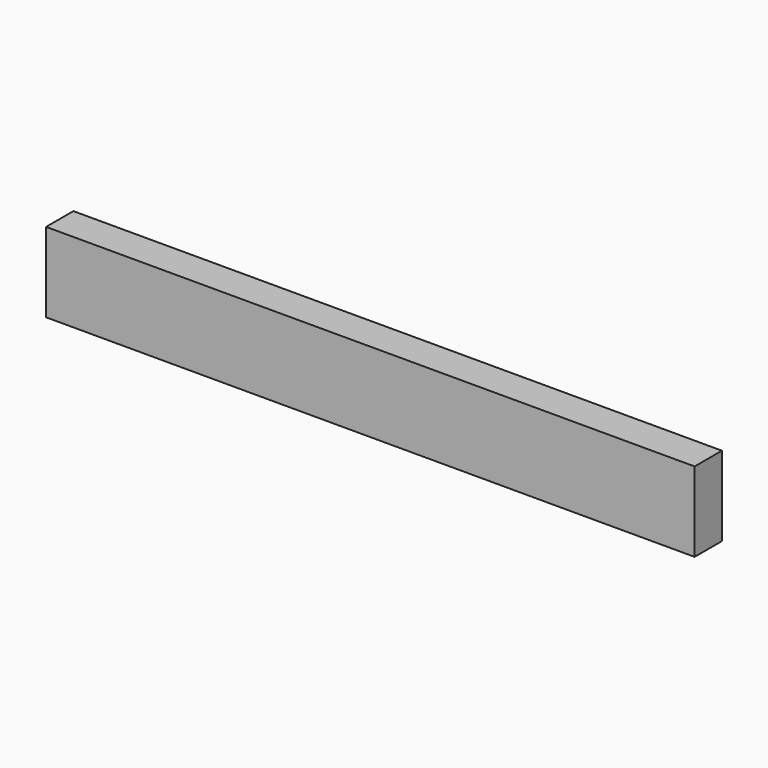
from build123d import *

# Parameters (mm, degrees)
F0_W     = 723.9
F0_H     = 88.9
F1_DEPTH = 38.1
F2_R     = 38.305173
F3_DEPTH = 25.4


with BuildPart() as f1:
    # F0 (on Front) → F1 (new body)
    with BuildSketch(Plane.XZ):
        with Locations((213.221733, 11.706532)):
            Rectangle(F0_W, F0_H)
    extrude(amount=F1_DEPTH)

    # F2 (on face) → F3 (cut)
    with BuildSketch(Plane.XZ):
        with Locations((213.181317, 12.173305)):
            Circle(F2_R)
    extrude(amount=F3_DEPTH, mode=Mode.SUBTRACT)


solid = f1.part
